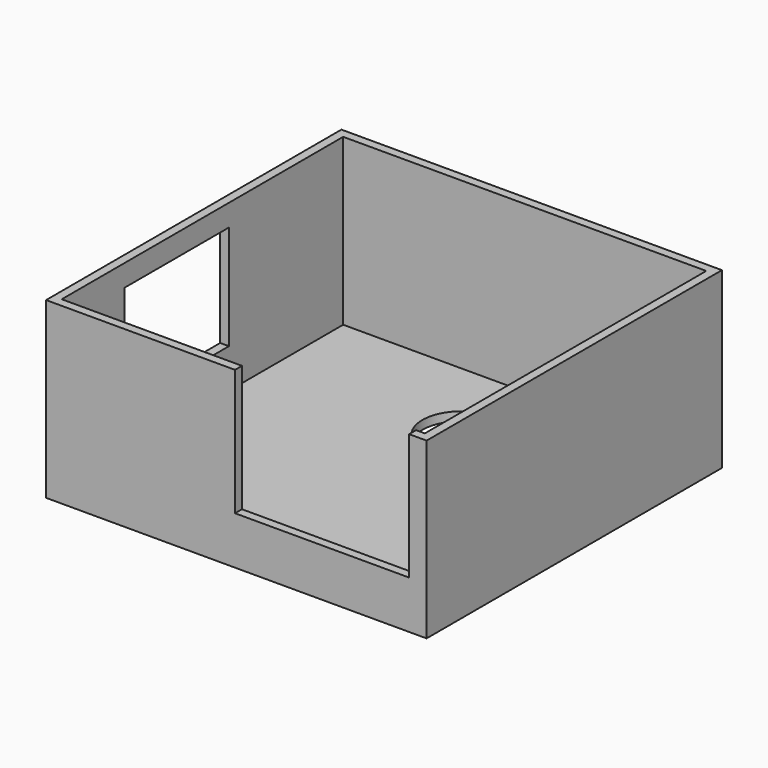
from build123d import *

# Parameters (mm, degrees)
F0_W      = 43.7
F0_H      = 42.4
F1_DEPTH  = 20
F2_W      = 41.7
F2_H      = 40.4
F3_DEPTH  = 19
F4_R      = 1.5
F5_DEPTH  = 1
F6_R      = 4.5
F7_DEPTH  = 1
F8_W      = 15
F8_H      = 12
F9_DEPTH  = 1
F10_W     = 20
F10_H     = 14.5
F11_DEPTH = 1
F12_W     = 3.5
F12_H     = 2
F13_DEPTH = 1


with BuildPart() as f1:
    # F0 (on Top) → F1 (new body)
    with BuildSketch(Plane.XY):
        with Locations((-21.85, 26.01227)):
            Rectangle(F0_W, F0_H)
    extrude(amount=F1_DEPTH)

    # F2 (on face) → F3 (cut)
    with BuildSketch(Plane.XY.offset(20)):
        with Locations((-21.85, 26.01227)):
            Rectangle(F2_W, F2_H)
    extrude(amount=-F3_DEPTH, mode=Mode.SUBTRACT)

    # F4 (on face) → F5 (cut)
    with BuildSketch(Plane.XY.offset(1)):
        with Locations((-5, 42.21227)):
            Circle(F4_R)
        with Locations((-36.4, 9.81227)):
            Circle(F4_R)
    extrude(amount=-F5_DEPTH, mode=Mode.SUBTRACT)

    # F6 (on face) → F7 (cut)
    with BuildSketch(Plane.XY.offset(1)):
        with Locations((-21.1, 36.21227)):
            Circle(F6_R)
    extrude(amount=-F7_DEPTH, mode=Mode.SUBTRACT)

    # F8 (on face) → F9 (cut)
    with BuildSketch(Plane(origin=(-43.7, 0, 0), x_dir=(0, -1, 0), z_dir=(-1, 0, 0))):
        with Locations((-22.31227, 11.5)):
            Rectangle(F8_W, F8_H)
    extrude(amount=-F9_DEPTH, mode=Mode.SUBTRACT)

    # F10 (on face) → F11 (cut)
    with BuildSketch(Plane.XZ.offset(-4.81227)):
        with Locations((-12, 12.75)):
            Rectangle(F10_W, F10_H)
    extrude(amount=-F11_DEPTH, mode=Mode.SUBTRACT)

    # F12 (on face) → F13 (cut)
    with BuildSketch(Plane(origin=(0, 0, 0), x_dir=(1, 0, 0), z_dir=(0, 0, -1))):
        with Locations((-33.95, -13.81227)):
            Rectangle(F12_W, F12_H)
    extrude(amount=-F13_DEPTH, mode=Mode.SUBTRACT)


solid = f1.part
